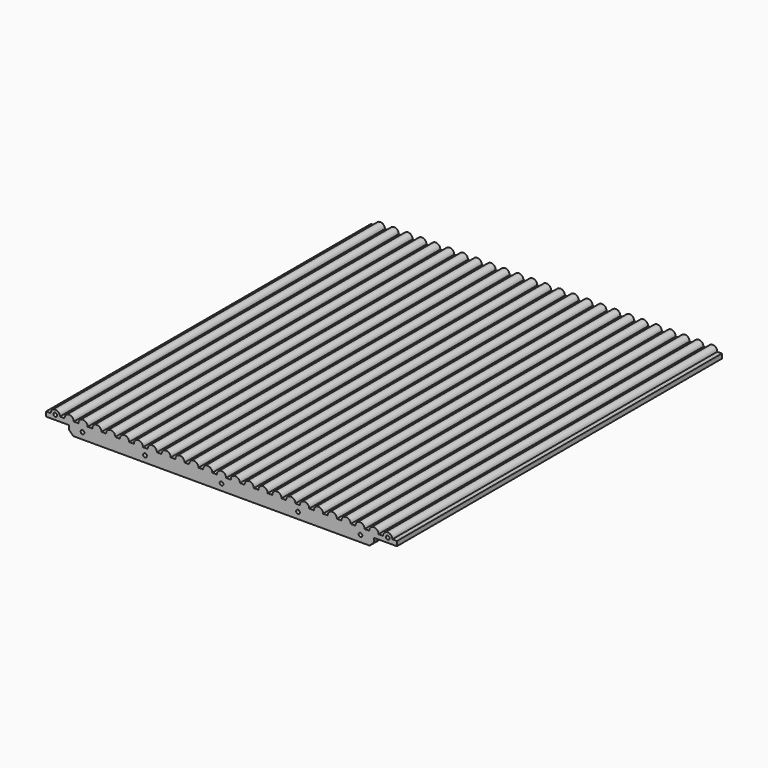
from build123d import *

# Parameters (mm, degrees)
F0_R     = 2.54
F1_DEPTH = 558.8


with BuildPart() as f1:
    # F0 (on Front) → F1 (new body)
    with BuildSketch(Plane.XZ):
        with BuildLine():
            Line((241.299638, 2.54), (241.299638, 8.89))
            Line((241.299638, 8.89), (234.95, 8.89))
            ThreePointArc((234.95, 8.89), (228.6, 15.24), (222.25, 8.89))
            Line((222.25, 8.89), (215.9, 8.89))
            ThreePointArc((215.9, 8.89), (209.55, 15.24), (203.2, 8.89))
            Line((203.2, 8.89), (196.85, 8.89))
            ThreePointArc((196.85, 8.89), (190.5, 15.24), (184.15, 8.89))
            Line((184.15, 8.89), (177.8, 8.89))
            ThreePointArc((177.8, 8.89), (171.45, 15.24), (165.1, 8.89))
            Line((165.1, 8.89), (158.75, 8.89))
            ThreePointArc((158.75, 8.89), (152.4, 15.24), (146.05, 8.89))
            Line((146.05, 8.89), (139.7, 8.89))
            ThreePointArc((139.7, 8.89), (133.35, 15.24), (127, 8.89))
            Line((127, 8.89), (120.65, 8.89))
            ThreePointArc((120.65, 8.89), (114.3, 15.24), (107.95, 8.89))
            Line((107.95, 8.89), (101.6, 8.89))
            ThreePointArc((101.6, 8.89), (95.25, 15.24), (88.9, 8.89))
            Line((88.9, 8.89), (82.55, 8.89))
            ThreePointArc((82.55, 8.89), (76.2, 15.24), (69.85, 8.89))
            Line((69.85, 8.89), (63.5, 8.89))
            ThreePointArc((63.5, 8.89), (57.15, 15.24), (50.8, 8.89))
            Line((50.8, 8.89), (44.45, 8.89))
            ThreePointArc((44.45, 8.89), (38.1, 15.24), (31.75, 8.89))
            Line((31.75, 8.89), (25.4, 8.89))
            ThreePointArc((25.4, 8.89), (19.05, 15.24), (12.7, 8.89))
            Line((12.7, 8.89), (6.35, 8.89))
            ThreePointArc((6.35, 8.89), (0, 15.24), (-6.35, 8.89))
            Line((-6.35, 8.89), (-12.7, 8.89))
            ThreePointArc((-12.7, 8.89), (-19.05, 15.24), (-25.4, 8.89))
            Line((-25.4, 8.89), (-31.75, 8.89))
            ThreePointArc((-31.75, 8.89), (-38.1, 15.24), (-44.45, 8.89))
            Line((-44.45, 8.89), (-50.8, 8.89))
            ThreePointArc((-50.8, 8.89), (-57.15, 15.24), (-63.5, 8.89))
            Line((-63.5, 8.89), (-69.85, 8.89))
            ThreePointArc((-69.85, 8.89), (-76.2, 15.24), (-82.55, 8.89))
            Line((-82.55, 8.89), (-88.9, 8.89))
            ThreePointArc((-88.9, 8.89), (-95.25, 15.24), (-101.6, 8.89))
            Line((-101.6, 8.89), (-107.95, 8.89))
            ThreePointArc((-107.95, 8.89), (-114.3, 15.24), (-120.65, 8.89))
            Line((-120.65, 8.89), (-127, 8.89))
            ThreePointArc((-127, 8.89), (-133.35, 15.24), (-139.7, 8.89))
            Line((-139.7, 8.89), (-146.05, 8.89))
            ThreePointArc((-146.05, 8.89), (-152.4, 15.24), (-158.75, 8.89))
            Line((-158.75, 8.89), (-165.1, 8.89))
            ThreePointArc((-165.1, 8.89), (-171.45, 15.24), (-177.8, 8.89))
            Line((-177.8, 8.89), (-184.15, 8.89))
            ThreePointArc((-184.15, 8.89), (-190.5, 15.24), (-196.85, 8.89))
            Line((-196.85, 8.89), (-203.2, 8.89))
            ThreePointArc((-203.2, 8.89), (-209.55, 15.24), (-215.9, 8.89))
            Line((-215.9, 8.89), (-222.25, 8.89))
            ThreePointArc((-222.25, 8.89), (-228.6, 15.24), (-234.95, 8.89))
            Line((-234.95, 8.89), (-241.299638, 8.89))
            Line((-241.299638, 8.89), (-241.299638, 2.54))
            Line((-241.299638, 2.54), (-209.55, 2.54))
            Line((-209.55, 2.54), (-209.55, -3.175))
            Line((-209.55, -3.175), (-203.835, -8.89))
            Line((-203.835, -8.89), (203.835, -8.89))
            Line((203.835, -8.89), (209.55, -3.175))
            Line((209.55, -3.175), (209.55, 2.54))
            Line((209.55, 2.54), (241.299638, 2.54))
        make_face()
        with Locations((-191.163868, 0)):
            Circle(F0_R, mode=Mode.SUBTRACT)
        with Locations((-105.212435, 0)):
            Circle(F0_R, mode=Mode.SUBTRACT)
        Circle(F0_R, mode=Mode.SUBTRACT)
        with Locations((105.212435, 0)):
            Circle(F0_R, mode=Mode.SUBTRACT)
        with Locations((191.163868, 0)):
            Circle(F0_R, mode=Mode.SUBTRACT)
        with Locations((-228.6, 8.89)):
            Circle(F0_R, mode=Mode.SUBTRACT)
        with Locations((228.6, 8.89)):
            Circle(F0_R, mode=Mode.SUBTRACT)
    extrude(amount=F1_DEPTH)


solid = f1.part
